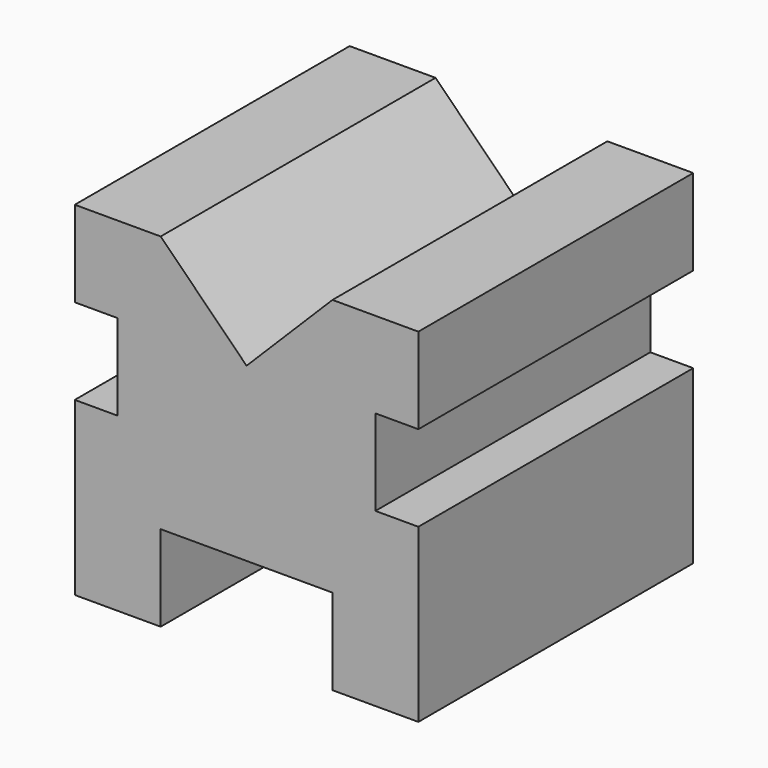
from build123d import *

# Parameters (mm, degrees)
F0_W     = 101.6
F0_H     = 101.6
F1_DEPTH = 101.6
F3_DEPTH = 132.08
F4_W     = 12.7
F4_H     = 25.4
F5_DEPTH = 174.244
F6_W     = 50.8
F6_H     = 25.4
F7_DEPTH = 294.64


with BuildPart() as f1:
    # F0 (on Top) → F1 (new body)
    with BuildSketch(Plane.XY):
        with Locations((-50.8, -50.8)):
            Rectangle(F0_W, F0_H)
    extrude(amount=F1_DEPTH)

    # F2 (on face) → F3 (cut)
    with BuildSketch(Plane.XZ.offset(101.6)):
        Polygon((-50.8, 101.6), (-76.2, 101.6), (-50.8, 76.2), align=None)
        Polygon((-25.4, 101.6), (-50.8, 101.6), (-50.8, 76.2), align=None)
    extrude(amount=-F3_DEPTH, mode=Mode.SUBTRACT)

    # F4 (on face) → F5 (cut)
    with BuildSketch(Plane.XZ.offset(101.6)):
        with Locations((-6.35, 63.5)):
            Rectangle(F4_W, F4_H)
        with Locations((-95.25, 63.5)):
            Rectangle(F4_W, F4_H)
    extrude(amount=-F5_DEPTH, mode=Mode.SUBTRACT)

    # F6 (on face) → F7 (cut)
    with BuildSketch(Plane.XZ.offset(101.6)):
        with Locations((-50.8, 12.7)):
            Rectangle(F6_W, F6_H)
    extrude(amount=-F7_DEPTH, mode=Mode.SUBTRACT)


solid = f1.part
